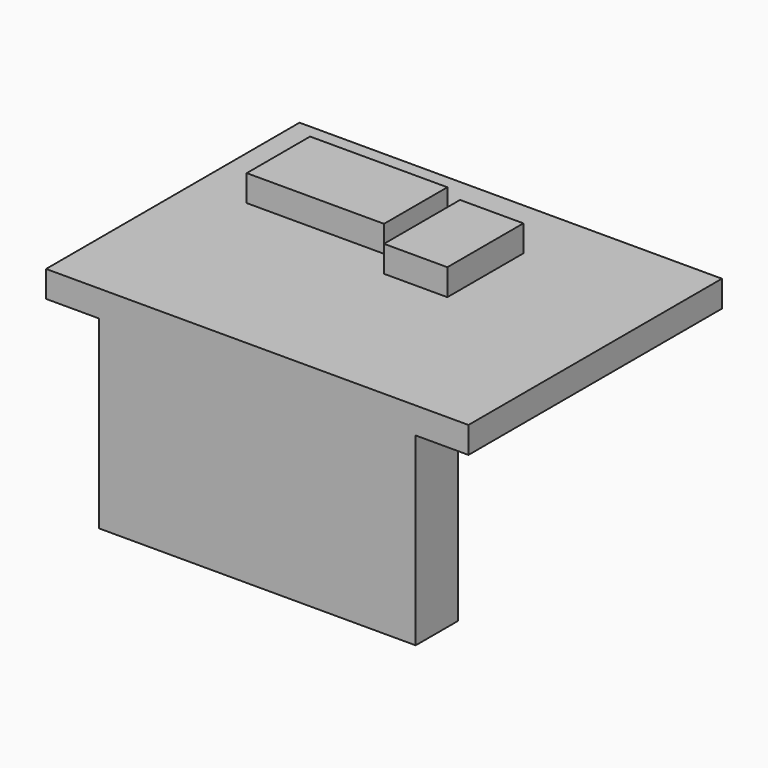
from build123d import *

# Parameters (mm, degrees)
F0_W     = 3.175
F0_H     = 3.175
F0_W_2   = 8.255
F0_H_2   = 15.875
F1_DEPTH = 1.5875
F0_W_3   = 3.81
F0_H_3   = 5.715
F2_DEPTH = 3.175
F0_W_4   = 19.05
F3_DEPTH = 1.5875
F4_DEPTH = 11.1125


with BuildPart() as f1:
    # F0 (on Top) → F1 (new body)
    with BuildSketch(Plane.XY):
        with Locations((-11.1125, -7.9375)):
            Rectangle(F0_W, F0_H)
        Polygon((-12.7, -6.35), (-9.525, -6.35), (-9.525, 1.5875), (-9.525, 6.35), (-9.525, 9.525), (-12.7, 9.525), align=None)
        Polygon((9.525, -6.35), (9.525, 9.525), (3.81, 9.525), (3.81, 5.715), (3.81, 0), (0, 0), (0, 5.715), (-1.27, 5.715), (-1.27, 1.5875), (-9.525, 1.5875), (-9.525, -6.35), align=None)
        with Locations((-5.3975, 7.9375)):
            Rectangle(F0_W_2, F0_H)
        Polygon((3.81, 5.715), (3.81, 9.525), (-1.27, 9.525), (-1.27, 6.35), (-1.27, 5.715), (0, 5.715), align=None)
        with Locations((11.1125, 1.5875)):
            Rectangle(F0_W, F0_H_2)
        with Locations((11.1125, -7.9375)):
            Rectangle(F0_W, F0_H)
    extrude(amount=F1_DEPTH)

    # F0 (on Top) → F2 (join)
    with BuildSketch(Plane.XY):
        Polygon((-1.27, 5.715), (-1.27, 6.35), (-9.525, 6.35), (-9.525, 1.5875), (-1.27, 1.5875), align=None)
        with Locations((1.905, 2.8575)):
            Rectangle(F0_W_3, F0_H_3)
    extrude(amount=F2_DEPTH)

    # F0 (on Top) → F3 (join)
    with BuildSketch(Plane.XY):
        with Locations((0, -7.9375)):
            Rectangle(F0_W_4, F0_H)
    extrude(amount=F3_DEPTH)

    # F0 (on Top) → F4 (join)
    with BuildSketch(Plane.XY):
        with Locations((0, -7.9375)):
            Rectangle(F0_W_4, F0_H)
    extrude(amount=-F4_DEPTH)


solid = f1.part
